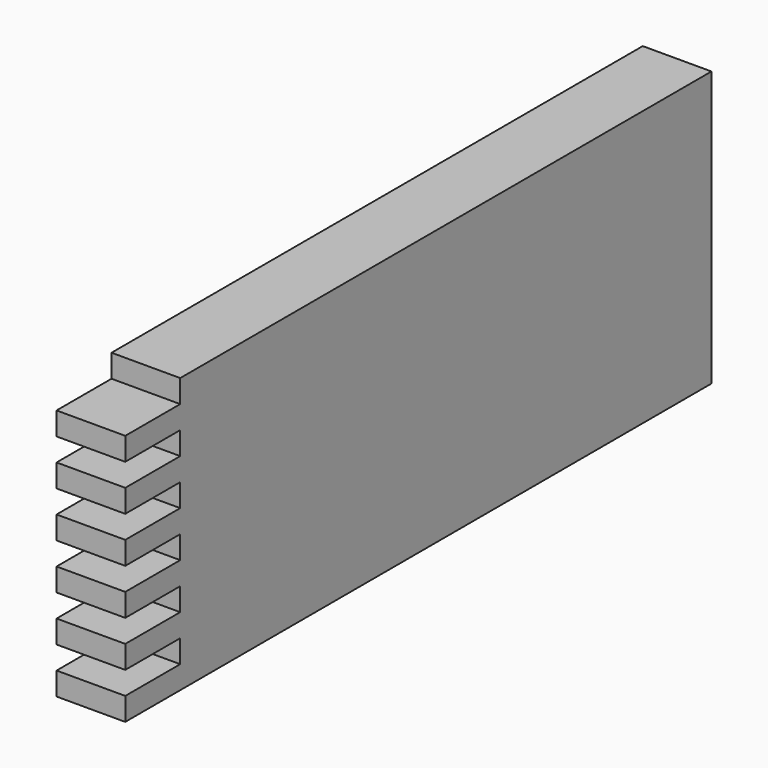
from build123d import *

# Parameters (mm, degrees)
F0_W     = 19.05
F0_H     = 76.2
F1_DEPTH = 101.6
F2_W     = 19.05
F2_H     = 6.35
F3_DEPTH = 19.051


with BuildPart() as f1:
    # F0 (on Front) → F1 (new body, symmetric)
    with BuildSketch(Plane.XZ):
        Rectangle(F0_W, F0_H)
    extrude(amount=F1_DEPTH, both=True)

    # F2 (on face) → F3 (cut, through all)
    with BuildSketch(Plane.YZ.offset(9.525)):
        with Locations((-92.075, 34.925)):
            Rectangle(F2_W, F2_H)
        with Locations((-92.075, 22.225)):
            Rectangle(F2_W, F2_H)
        with Locations((-92.075, 9.525)):
            Rectangle(F2_W, F2_H)
        with Locations((-92.075, -3.175)):
            Rectangle(F2_W, F2_H)
        with Locations((-92.075, -15.875)):
            Rectangle(F2_W, F2_H)
        with Locations((-92.075, -28.575)):
            Rectangle(F2_W, F2_H)
    extrude(amount=-F3_DEPTH, mode=Mode.SUBTRACT)


solid = f1.part
